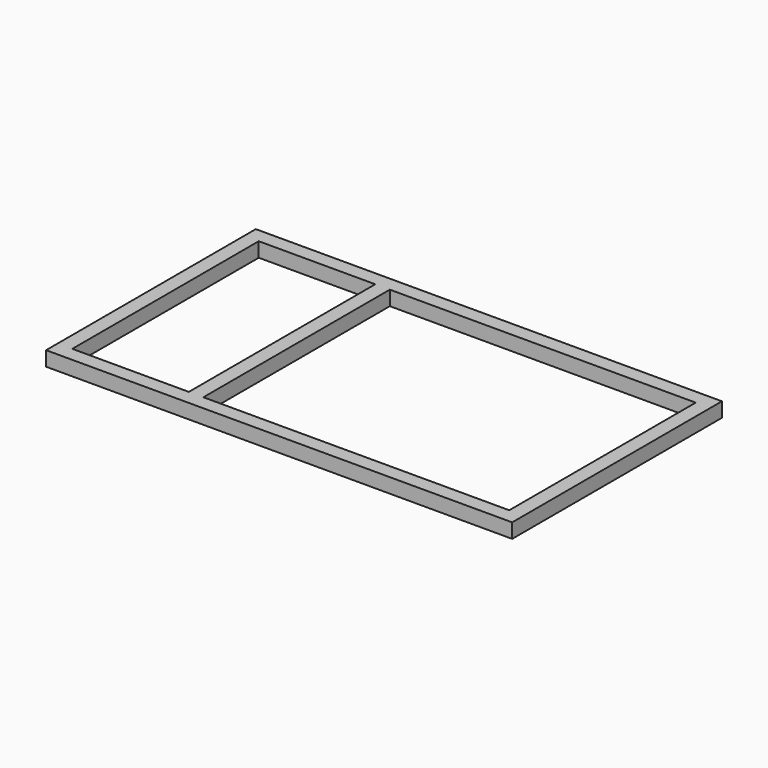
from build123d import *

# Parameters (mm, degrees)
F0_W     = 25.4
F0_H     = 406.4
F1_DEPTH = 12.7


with BuildPart() as f1:
    # F0 (on Top) → F1 (new body, symmetric)
    with BuildSketch(Plane.XY):
        with Locations((-393.7, 215.9)):
            Rectangle(F0_W, F0_H)
        Polygon((381, 419.1), (406.4, 419.1), (406.4, 444.5), (-406.4, 444.5), (-406.4, 419.1), (-381, 419.1), (-177.8, 419.1), (-152.4, 419.1), (355.6, 419.1), align=None)
        with Locations((-165.1, 215.9)):
            Rectangle(F0_W, F0_H)
        with Locations((393.7, 215.9)):
            Rectangle(F0_W, F0_H)
        Polygon((406.4, -12.7), (406.4, 12.7), (381, 12.7), (-152.4, 12.7), (-177.8, 12.7), (-381, 12.7), (-406.4, 12.7), (-406.4, -12.7), align=None)
    extrude(amount=F1_DEPTH, both=True)


solid = f1.part
